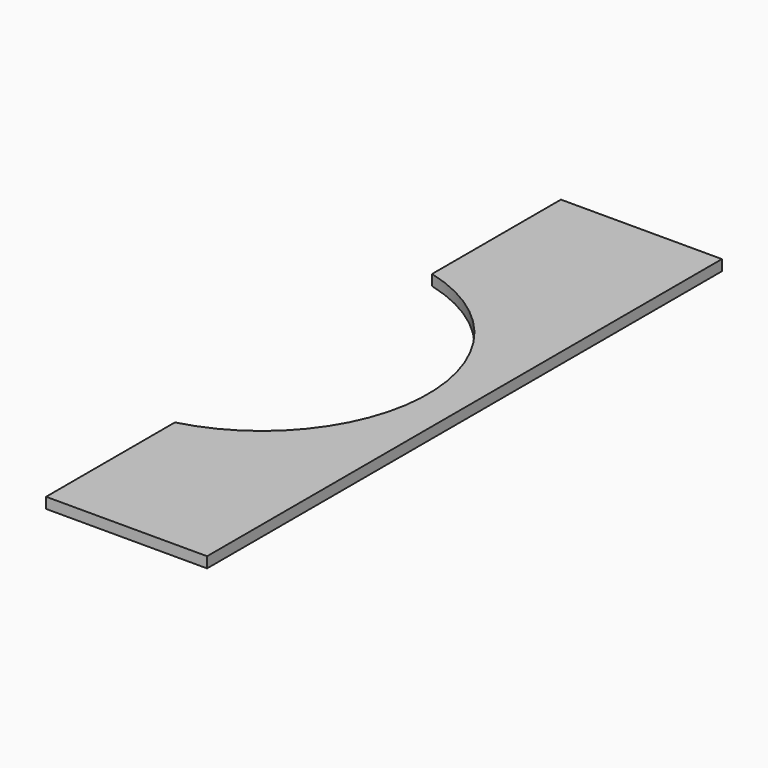
from build123d import *

# Parameters (mm, degrees)
F1_DEPTH = 10
F2_DEPTH = 10


with BuildPart() as f1:
    # F0 (on Top) → F1 (new body)
    with BuildSketch(Plane.XY):
        with BuildLine():
            ThreePointArc((40, 149.749791), (155.880041, 0), (40, -149.749791))
            Line((40, -149.749791), (40, -299.749791))
            Line((40, -299.749791), (190, -299.749791))
            Line((190, -299.749791), (190, 299.749791))
            Line((190, 299.749791), (40, 299.749791))
            Line((40, 299.749791), (40, 149.749791))
        make_face()
    extrude(amount=F1_DEPTH)

    # F0 (on Top) → F2 (join)
    with BuildSketch(Plane.XY):
        with BuildLine():
            ThreePointArc((40, 149.749791), (155.880041, 0), (40, -149.749791))
            Line((40, -149.749791), (40, -299.749791))
            Line((40, -299.749791), (190, -299.749791))
            Line((190, -299.749791), (190, 299.749791))
            Line((190, 299.749791), (40, 299.749791))
            Line((40, 299.749791), (40, 149.749791))
        make_face()
    extrude(amount=F2_DEPTH)


solid = f1.part
